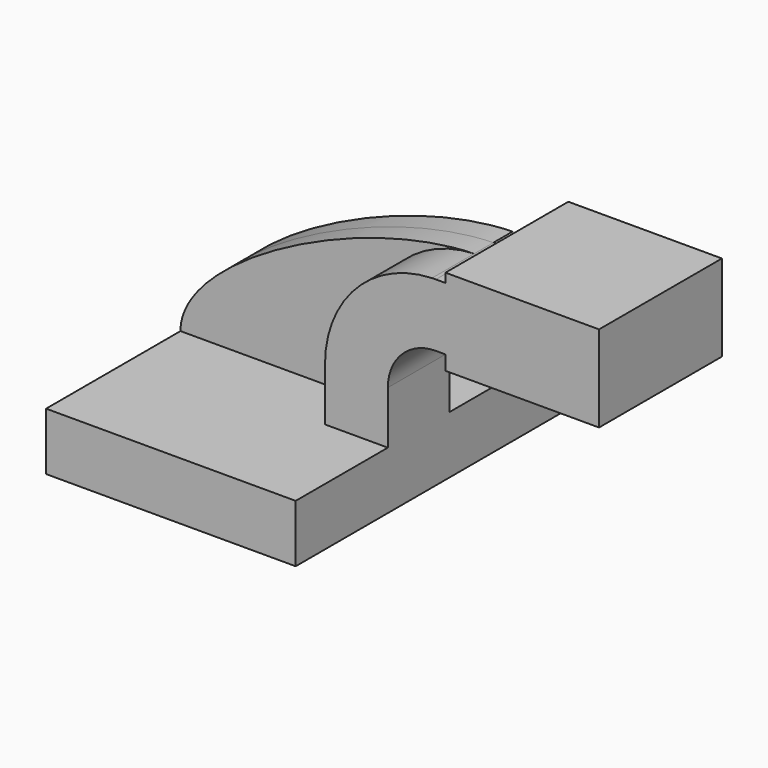
from build123d import *

# Parameters (mm, degrees)
F1_DEPTH = 63.5
F2_DEPTH = 25.4
F3_DEPTH = 7.9375
F4_DEPTH = 25.4


with BuildPart() as f1:
    # F0 (on Front) → F1 (new body, symmetric)
    with BuildSketch(Plane.XZ):
        Polygon((41.275, -9.525), (41.275, 9.525), (20.484332, 9.525), (-41.275, 9.525), (-41.275, -9.525), align=None)
    extrude(amount=F1_DEPTH, both=True)

    # F0 (on Front) → F2 (join)
    with BuildSketch(Plane.XZ):
        with BuildLine():
            Line((20.484332, 9.525), (41.275, 9.525))
            Line((41.275, 9.525), (41.275, 27.0002))
            ThreePointArc((41.275, 27.0002), (45.92468, 38.22552), (57.15, 42.8752))
            Line((57.15, 42.8752), (60.325, 42.8752))
            Line((60.325, 42.8752), (60.325, 63.665868))
            Line((60.325, 63.665868), (57.15, 63.665868))
            add(Edge.make_bspline(
                [(55.888309, 63.644154), (56.311167, 63.654873), (56.731763, 63.662127), (57.15, 63.665868)],
                knots=[111.128232, 111.128232, 111.128232, 111.128232, 112.33305, 112.33305, 112.33305, 112.33305], degree=3))
            ThreePointArc((55.888309, 63.644154), (30.781155, 52.476763), (20.484332, 27.0002))
            Line((20.484332, 27.0002), (20.484332, 9.525))
        make_face()
    extrude(amount=F2_DEPTH)

    # F0 (on Front) → F3 (join, symmetric)
    with BuildSketch(Plane.XZ):
        with BuildLine():
            Line((-41.275, 9.525), (20.484332, 9.525))
            Line((20.484332, 9.525), (20.484332, 27.0002))
            ThreePointArc((20.484332, 27.0002), (30.781155, 52.476763), (55.888309, 63.644154))
            add(Edge.make_bspline(
                [(-41.275, 9.525), (-41.352221, 32.188205), (16.885422, 62.65548), (55.888309, 63.644154)],
                knots=[0, 0, 0, 0, 111.128232, 111.128232, 111.128232, 111.128232], degree=3))
        make_face()
    extrude(amount=F3_DEPTH, both=True)

    # F0 (on Front) → F4 (join, symmetric)
    with BuildSketch(Plane.XZ):
        Polygon((60.325, 63.665868), (60.325, 42.8752), (60.325, 38.1), (111.125, 38.1), (111.125, 66.675), (60.325, 66.675), align=None)
    extrude(amount=F4_DEPTH, both=True)


solid = f1.part
